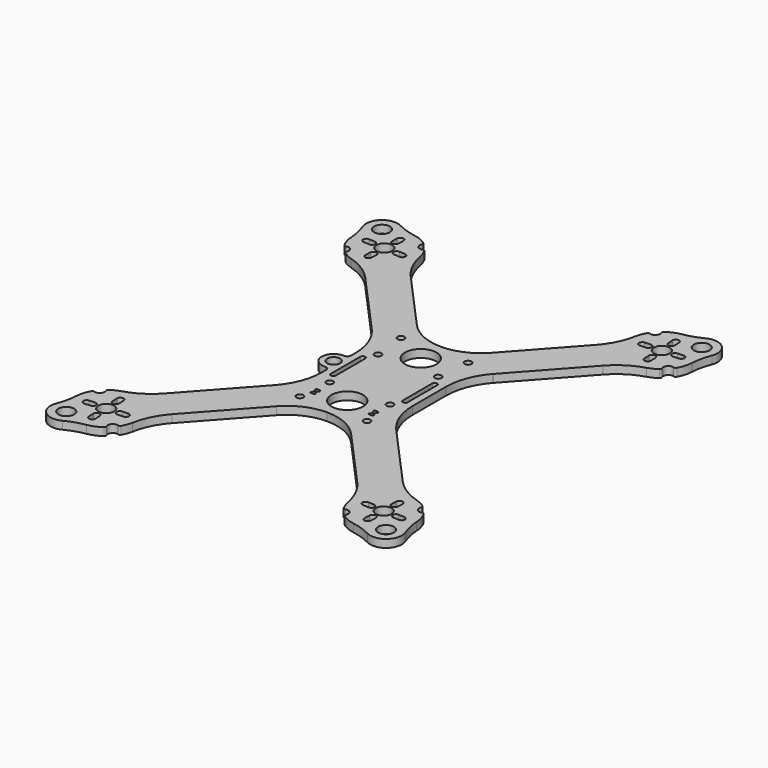
from build123d import *

# Parameters (mm, degrees)
F0_R     = 4
F0_R_2   = 1.75
F0_R_3   = 3.25
F1_DEPTH = 4
F3_DEPTH = 25
F4_W     = 1.5
F4_H     = 4
F5_DEPTH = 25
F6_R     = 0.5
F7_DEPTH = 25


with BuildPart() as f1:
    # F0 (on Top) → F1 (new body)
    with BuildSketch(Plane.XY):
        with BuildLine():
            ThreePointArc((-74.847867, 72.702465), (-66.910899, 69.085239), (-60.245539, 63.45916))
            Line((-60.245539, 63.45916), (-30.818519, 30.777144))
            ThreePointArc((-30.818519, 30.777144), (-30.655766, 30.595422), (-30.493979, 30.412839))
            ThreePointArc((-30.493979, 30.412839), (-24.935961, 21.178877), (-23, 10.576533))
            Line((-23, 10.576533), (-23, 7.98436))
            ThreePointArc((-23, 7.98436), (-23.630694, 6.526622), (-25.125, 5.98827))
            ThreePointArc((-25.125, 5.98827), (-31.5, 0), (-25.125, -5.98827))
            ThreePointArc((-25.125, -5.98827), (-23.630694, -6.526622), (-23, -7.98436))
            Line((-23, -7.98436), (-23, -10.576533))
            ThreePointArc((-23, -10.576533), (-24.935961, -21.178877), (-30.493979, -30.412839))
            ThreePointArc((-30.493979, -30.412839), (-30.655766, -30.595422), (-30.818519, -30.777144))
            Line((-30.818519, -30.777144), (-60.245539, -63.45916))
            ThreePointArc((-60.245539, -63.45916), (-66.910899, -69.085239), (-74.847867, -72.702465))
            ThreePointArc((-74.847867, -72.702465), (-77.302572, -73.664133), (-79.566037, -75.01584))
            ThreePointArc((-79.566037, -75.01584), (-79.952159, -75.577633), (-79.88853, -76.256346))
            ThreePointArc((-79.88853, -76.256346), (-80.291169, -78.996943), (-82.974665, -79.683847))
            ThreePointArc((-82.974665, -79.683847), (-83.656312, -79.691511), (-84.174666, -80.134242))
            ThreePointArc((-84.174666, -80.134242), (-85.604242, -83.500883), (-86.231896, -87.104216))
            ThreePointArc((-86.231896, -87.104216), (-86.926577, -92.132084), (-88.407495, -96.986866))
            ThreePointArc((-88.407495, -96.986866), (-86.317848, -105.865682), (-77.269244, -107.015793))
            ThreePointArc((-77.269244, -107.015793), (-72.595854, -105.035524), (-67.668144, -103.819094))
            ThreePointArc((-67.668144, -103.819094), (-64.150158, -102.818227), (-60.951391, -101.044573))
            ThreePointArc((-60.951391, -101.044573), (-60.565268, -100.482781), (-60.628898, -99.804067))
            ThreePointArc((-60.628898, -99.804067), (-60.226259, -97.06347), (-57.542762, -96.376566))
            ThreePointArc((-57.542762, -96.376566), (-56.861115, -96.368902), (-56.342761, -95.926172))
            ThreePointArc((-56.342761, -95.926172), (-55.235056, -93.533814), (-54.535242, -90.992035))
            ThreePointArc((-54.535242, -90.992035), (-51.76747, -82.720443), (-46.868932, -75.503511))
            Line((-46.868932, -75.503511), (-18.86086, -44.397396))
            ThreePointArc((-18.86086, -44.397396), (-10.322891, -38.194198), (0, -36))
            ThreePointArc((0, -36), (10.322891, -38.194198), (18.86086, -44.397396))
            Line((18.86086, -44.397396), (46.868932, -75.503511))
            ThreePointArc((46.868932, -75.503511), (51.76747, -82.720443), (54.535242, -90.992035))
            ThreePointArc((54.535242, -90.992035), (55.235056, -93.533814), (56.342761, -95.926172))
            ThreePointArc((56.342761, -95.926172), (56.861115, -96.368902), (57.542762, -96.376566))
            ThreePointArc((57.542762, -96.376566), (60.226259, -97.06347), (60.628898, -99.804067))
            ThreePointArc((60.628898, -99.804067), (60.565268, -100.482781), (60.951391, -101.044573))
            ThreePointArc((60.951391, -101.044573), (64.150158, -102.818227), (67.668144, -103.819094))
            ThreePointArc((67.668144, -103.819094), (72.595854, -105.035524), (77.269244, -107.015793))
            ThreePointArc((77.269244, -107.015793), (86.317848, -105.865682), (88.407495, -96.986866))
            ThreePointArc((88.407495, -96.986866), (86.926577, -92.132084), (86.231896, -87.104216))
            ThreePointArc((86.231896, -87.104216), (85.604242, -83.500883), (84.174666, -80.134242))
            ThreePointArc((84.174666, -80.134242), (83.656312, -79.691511), (82.974665, -79.683847))
            ThreePointArc((82.974665, -79.683847), (80.291169, -78.996943), (79.88853, -76.256346))
            ThreePointArc((79.88853, -76.256346), (79.952159, -75.577633), (79.566037, -75.01584))
            ThreePointArc((79.566037, -75.01584), (77.302572, -73.664133), (74.847867, -72.702465))
            ThreePointArc((74.847867, -72.702465), (66.910899, -69.085239), (60.245539, -63.45916))
            Line((60.245539, -63.45916), (30.818519, -30.777144))
            ThreePointArc((30.818519, -30.777144), (30.655766, -30.595422), (30.493979, -30.412839))
            ThreePointArc((30.493979, -30.412839), (24.935961, -21.178877), (23, -10.576533))
            Line((23, -10.576533), (23, 10.576533))
            ThreePointArc((23, 10.576533), (24.935961, 21.178877), (30.493979, 30.412839))
            ThreePointArc((30.493979, 30.412839), (30.655766, 30.595422), (30.818519, 30.777144))
            Line((30.818519, 30.777144), (60.245539, 63.45916))
            ThreePointArc((60.245539, 63.45916), (66.910899, 69.085239), (74.847867, 72.702465))
            ThreePointArc((74.847867, 72.702465), (77.302572, 73.664133), (79.566037, 75.01584))
            ThreePointArc((79.566037, 75.01584), (79.952159, 75.577633), (79.88853, 76.256346))
            ThreePointArc((79.88853, 76.256346), (80.291169, 78.996943), (82.974665, 79.683847))
            ThreePointArc((82.974665, 79.683847), (83.656312, 79.691511), (84.174666, 80.134242))
            ThreePointArc((84.174666, 80.134242), (85.604242, 83.500883), (86.231896, 87.104216))
            ThreePointArc((86.231896, 87.104216), (86.926577, 92.132084), (88.407495, 96.986866))
            ThreePointArc((88.407495, 96.986866), (86.317848, 105.865682), (77.269244, 107.015793))
            ThreePointArc((77.269244, 107.015793), (72.595854, 105.035524), (67.668144, 103.819094))
            ThreePointArc((67.668144, 103.819094), (64.150158, 102.818227), (60.951391, 101.044573))
            ThreePointArc((60.951391, 101.044573), (60.565268, 100.482781), (60.628898, 99.804067))
            ThreePointArc((60.628898, 99.804067), (60.226259, 97.06347), (57.542762, 96.376566))
            ThreePointArc((57.542762, 96.376566), (56.861115, 96.368902), (56.342761, 95.926172))
            ThreePointArc((56.342761, 95.926172), (55.235056, 93.533814), (54.535242, 90.992035))
            ThreePointArc((54.535242, 90.992035), (51.76747, 82.720443), (46.868932, 75.503511))
            Line((46.868932, 75.503511), (18.86086, 44.397396))
            ThreePointArc((18.86086, 44.397396), (10.322891, 38.194198), (0, 36))
            ThreePointArc((0, 36), (-10.322891, 38.194198), (-18.86086, 44.397396))
            Line((-18.86086, 44.397396), (-46.868932, 75.503511))
            ThreePointArc((-46.868932, 75.503511), (-51.76747, 82.720443), (-54.535242, 90.992035))
            ThreePointArc((-54.535242, 90.992035), (-55.235056, 93.533814), (-56.342761, 95.926172))
            ThreePointArc((-56.342761, 95.926172), (-56.861115, 96.368902), (-57.542762, 96.376566))
            ThreePointArc((-57.542762, 96.376566), (-60.226259, 97.06347), (-60.628898, 99.804067))
            ThreePointArc((-60.628898, 99.804067), (-60.565268, 100.482781), (-60.951391, 101.044573))
            ThreePointArc((-60.951391, 101.044573), (-64.150158, 102.818227), (-67.668144, 103.819094))
            ThreePointArc((-67.668144, 103.819094), (-72.595854, 105.035524), (-77.269244, 107.015793))
            ThreePointArc((-77.269244, 107.015793), (-86.317848, 105.865682), (-88.407495, 96.986866))
            ThreePointArc((-88.407495, 96.986866), (-86.926577, 92.132084), (-86.231896, 87.104216))
            ThreePointArc((-86.231896, 87.104216), (-85.604242, 83.500883), (-84.174666, 80.134242))
            ThreePointArc((-84.174666, 80.134242), (-83.656312, 79.691511), (-82.974665, 79.683847))
            ThreePointArc((-82.974665, 79.683847), (-80.291169, 78.996943), (-79.88853, 76.256346))
            ThreePointArc((-79.88853, 76.256346), (-79.952159, 75.577633), (-79.566037, 75.01584))
            ThreePointArc((-79.566037, 75.01584), (-77.302572, 73.664133), (-74.847867, 72.702465))
        make_face()
        with Locations((-80.964803, -99.920524)):
            Circle(F0_R, mode=Mode.SUBTRACT)
        with Locations((-70.258714, -88.030207)):
            Circle(F0_R, mode=Mode.SUBTRACT)
        with Locations((-17, -32)):
            Circle(F0_R_2, mode=Mode.SUBTRACT)
        with Locations((-15.25, -15.25)):
            Circle(F0_R_2, mode=Mode.SUBTRACT)
        with Locations((80.964803, -99.920524)):
            Circle(F0_R, mode=Mode.SUBTRACT)
        with Locations((70.258714, -88.030207)):
            Circle(F0_R, mode=Mode.SUBTRACT)
        with Locations((17, -32)):
            Circle(F0_R_2, mode=Mode.SUBTRACT)
        with BuildLine():
            ThreePointArc((0, -15.25), (8, -23.25), (0, -31.25))
            ThreePointArc((0, -31.25), (-8, -23.25), (0, -15.25))
        make_face(mode=Mode.SUBTRACT)
        with Locations((15.25, -15.25)):
            Circle(F0_R_2, mode=Mode.SUBTRACT)
        with Locations((-25.5, 0)):
            Circle(F0_R_3, mode=Mode.SUBTRACT)
        with BuildLine():
            ThreePointArc((-19.5, 9.5), (-19.207107, 10.207107), (-18.5, 10.5))
            Line((-18.5, 10.5), (-18, 10.5))
            ThreePointArc((-18, 10.5), (-17.292893, 10.207107), (-17, 9.5))
            Line((-17, 9.5), (-17, 0))
            Line((-17, 0), (-17, -9.5))
            ThreePointArc((-17, -9.5), (-17.292893, -10.207107), (-18, -10.5))
            Line((-18, -10.5), (-18.5, -10.5))
            ThreePointArc((-18.5, -10.5), (-19.207107, -10.207107), (-19.5, -9.5))
            Line((-19.5, -9.5), (-19.5, 9.5))
        make_face(mode=Mode.SUBTRACT)
        with Locations((-15.25, 15.25)):
            Circle(F0_R_2, mode=Mode.SUBTRACT)
        with Locations((-17, 32)):
            Circle(F0_R_2, mode=Mode.SUBTRACT)
        with Locations((-70.258714, 88.030207)):
            Circle(F0_R, mode=Mode.SUBTRACT)
        with Locations((-80.964803, 99.920524)):
            Circle(F0_R, mode=Mode.SUBTRACT)
        with BuildLine():
            Line((18, 10.5), (18.5, 10.5))
            ThreePointArc((18.5, 10.5), (19.207107, 10.207107), (19.5, 9.5))
            Line((19.5, 9.5), (19.5, -9.5))
            ThreePointArc((19.5, -9.5), (19.207107, -10.207107), (18.5, -10.5))
            Line((18.5, -10.5), (18, -10.5))
            ThreePointArc((18, -10.5), (17.292893, -10.207107), (17, -9.5))
            Line((17, -9.5), (17, 0))
            Line((17, 0), (17, 9.5))
            ThreePointArc((17, 9.5), (17.292893, 10.207107), (18, 10.5))
        make_face(mode=Mode.SUBTRACT)
        with BuildLine():
            ThreePointArc((0, 15.25), (-8, 23.25), (0, 31.25))
            ThreePointArc((0, 31.25), (8, 23.25), (0, 15.25))
        make_face(mode=Mode.SUBTRACT)
        with Locations((15.25, 15.25)):
            Circle(F0_R_2, mode=Mode.SUBTRACT)
        with Locations((17, 32)):
            Circle(F0_R_2, mode=Mode.SUBTRACT)
        with Locations((70.258714, 88.030207)):
            Circle(F0_R, mode=Mode.SUBTRACT)
        with Locations((80.964803, 99.920524)):
            Circle(F0_R, mode=Mode.SUBTRACT)
    extrude(amount=F1_DEPTH)

    # F2 (on face) → F3 (cut)
    with BuildSketch(Plane.XY.offset(4)):
        with BuildLine():
            ThreePointArc((-63.682576, 89.312796), (-65.390395, 87.775069), (-63.852668, 86.06725))
            Line((-63.852668, 86.06725), (-60.856779, 85.910242))
            ThreePointArc((-60.856779, 85.910242), (-59.14896, 87.447969), (-60.686687, 89.155788))
            Line((-60.686687, 89.155788), (-63.682576, 89.312796))
        make_face()
        with BuildLine():
            Line((-71.384295, 97.602233), (-71.541303, 94.606345))
            ThreePointArc((-71.541303, 94.606345), (-70.003576, 92.898526), (-68.295757, 94.436253))
            Line((-68.295757, 94.436253), (-68.138749, 97.432141))
            ThreePointArc((-68.138749, 97.432141), (-69.676476, 99.13996), (-71.384295, 97.602233))
        make_face()
        with BuildLine():
            Line((-79.83074, 86.904625), (-76.834852, 86.747617))
            ThreePointArc((-76.834852, 86.747617), (-75.127033, 88.285344), (-76.66476, 89.993163))
            Line((-76.66476, 89.993163), (-79.660648, 90.150171))
            ThreePointArc((-79.660648, 90.150171), (-81.368467, 88.612444), (-79.83074, 86.904625))
        make_face()
        with BuildLine():
            Line((-69.133132, 78.45818), (-68.976124, 81.454069))
            ThreePointArc((-68.976124, 81.454069), (-70.513851, 83.161888), (-72.22167, 81.624161))
            Line((-72.22167, 81.624161), (-72.378678, 78.628272))
            ThreePointArc((-72.378678, 78.628272), (-70.840951, 76.920453), (-69.133132, 78.45818))
        make_face()
        with BuildLine():
            Line((60.856779, 85.910242), (63.852668, 86.06725))
            ThreePointArc((63.852668, 86.06725), (65.390395, 87.775069), (63.682576, 89.312796))
            Line((63.682576, 89.312796), (60.686687, 89.155788))
            ThreePointArc((60.686687, 89.155788), (59.14896, 87.447969), (60.856779, 85.910242))
        make_face()
        with BuildLine():
            Line((79.660648, 90.150171), (76.66476, 89.993163))
            ThreePointArc((76.66476, 89.993163), (75.127033, 88.285344), (76.834852, 86.747617))
            Line((76.834852, 86.747617), (79.83074, 86.904625))
            ThreePointArc((79.83074, 86.904625), (81.368467, 88.612444), (79.660648, 90.150171))
        make_face()
        with BuildLine():
            Line((68.138749, 97.432141), (68.295757, 94.436253))
            ThreePointArc((68.295757, 94.436253), (70.003576, 92.898526), (71.541303, 94.606345))
            Line((71.541303, 94.606345), (71.384295, 97.602233))
            ThreePointArc((71.384295, 97.602233), (69.676476, 99.13996), (68.138749, 97.432141))
        make_face()
        with BuildLine():
            ThreePointArc((72.22167, 81.624161), (70.513851, 83.161888), (68.976124, 81.454069))
            Line((68.976124, 81.454069), (69.133132, 78.45818))
            ThreePointArc((69.133132, 78.45818), (70.840951, 76.920453), (72.378678, 78.628272))
            Line((72.378678, 78.628272), (72.22167, 81.624161))
        make_face()
        with BuildLine():
            Line((-60.856779, -85.910242), (-63.852668, -86.06725))
            ThreePointArc((-63.852668, -86.06725), (-65.390395, -87.775069), (-63.682576, -89.312796))
            Line((-63.682576, -89.312796), (-60.686687, -89.155788))
            ThreePointArc((-60.686687, -89.155788), (-59.14896, -87.447969), (-60.856779, -85.910242))
        make_face()
        with BuildLine():
            ThreePointArc((60.856779, -85.910242), (59.14896, -87.447969), (60.686687, -89.155788))
            Line((60.686687, -89.155788), (63.682576, -89.312796))
            ThreePointArc((63.682576, -89.312796), (65.390395, -87.775069), (63.852668, -86.06725))
            Line((63.852668, -86.06725), (60.856779, -85.910242))
        make_face()
        with BuildLine():
            Line((-79.660648, -90.150171), (-76.66476, -89.993163))
            ThreePointArc((-76.66476, -89.993163), (-75.127033, -88.285344), (-76.834852, -86.747617))
            Line((-76.834852, -86.747617), (-79.83074, -86.904625))
            ThreePointArc((-79.83074, -86.904625), (-81.368467, -88.612444), (-79.660648, -90.150171))
        make_face()
        with BuildLine():
            ThreePointArc((76.834852, -86.747617), (75.127033, -88.285344), (76.66476, -89.993163))
            Line((76.66476, -89.993163), (79.660648, -90.150171))
            ThreePointArc((79.660648, -90.150171), (81.368467, -88.612444), (79.83074, -86.904625))
            Line((79.83074, -86.904625), (76.834852, -86.747617))
        make_face()
        with BuildLine():
            Line((71.384295, -97.602233), (71.541303, -94.606345))
            ThreePointArc((71.541303, -94.606345), (70.003576, -92.898526), (68.295757, -94.436253))
            Line((68.295757, -94.436253), (68.138749, -97.432141))
            ThreePointArc((68.138749, -97.432141), (69.676476, -99.13996), (71.384295, -97.602233))
        make_face()
        with BuildLine():
            Line((-72.378678, -78.628272), (-72.22167, -81.624161))
            ThreePointArc((-72.22167, -81.624161), (-70.513851, -83.161888), (-68.976124, -81.454069))
            Line((-68.976124, -81.454069), (-69.133132, -78.45818))
            ThreePointArc((-69.133132, -78.45818), (-70.840951, -76.920453), (-72.378678, -78.628272))
        make_face()
        with BuildLine():
            Line((69.133132, -78.45818), (68.976124, -81.454069))
            ThreePointArc((68.976124, -81.454069), (70.513851, -83.161888), (72.22167, -81.624161))
            Line((72.22167, -81.624161), (72.378678, -78.628272))
            ThreePointArc((72.378678, -78.628272), (70.840951, -76.920453), (69.133132, -78.45818))
        make_face()
        with BuildLine():
            ThreePointArc((-68.295757, -94.436253), (-70.003576, -92.898526), (-71.541303, -94.606345))
            Line((-71.541303, -94.606345), (-71.384295, -97.602233))
            ThreePointArc((-71.384295, -97.602233), (-69.676476, -99.13996), (-68.138749, -97.432141))
            Line((-68.138749, -97.432141), (-68.295757, -94.436253))
        make_face()
    extrude(amount=-F3_DEPTH, mode=Mode.SUBTRACT)

    # F4 (on face) → F5 (cut)
    with BuildSketch(Plane.XY.offset(4)):
        with Locations((-14.75, -25)):
            Rectangle(F4_W, F4_H)
        with Locations((14.75, -25)):
            Rectangle(F4_W, F4_H)
    extrude(amount=-F5_DEPTH, mode=Mode.SUBTRACT)

    # F6 (on face) → F7 (cut)
    with BuildSketch(Plane.XY.offset(4)):
        with Locations((-14, -23.5)):
            Circle(F6_R)
        with Locations((-15.5, -23.5)):
            Circle(F6_R)
        with Locations((-15.5, -26.5)):
            Circle(F6_R)
        with Locations((-14, -26.5)):
            Circle(F6_R)
        with Locations((14, -26.5)):
            Circle(F6_R)
        with Locations((15.5, -23.5)):
            Circle(F6_R)
        with Locations((15.5, -26.5)):
            Circle(F6_R)
        with Locations((14, -23.5)):
            Circle(F6_R)
    extrude(amount=-F7_DEPTH, mode=Mode.SUBTRACT)


solid = f1.part
